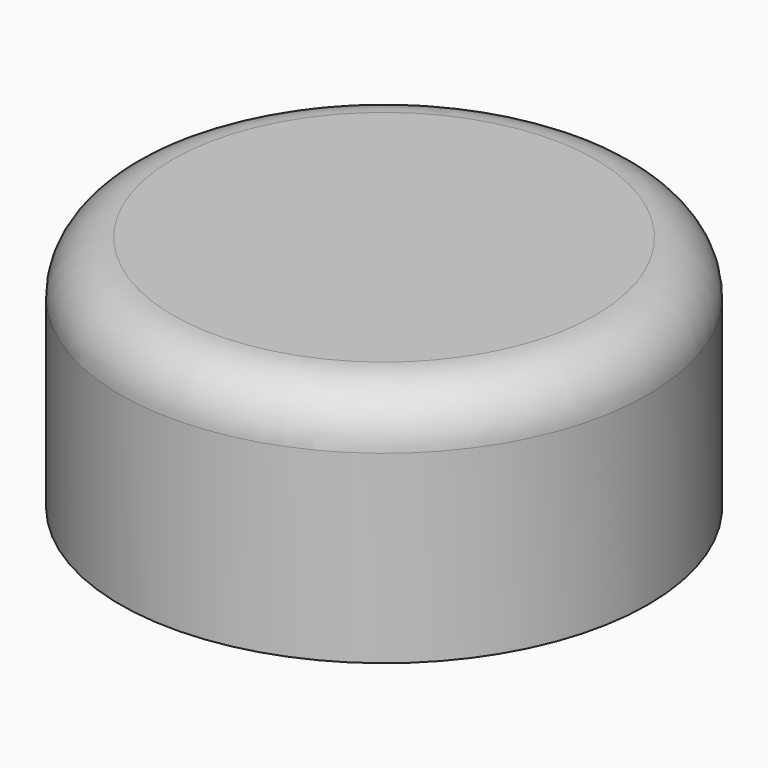
from build123d import *

# Parameters (mm, degrees)
F0_R     = 25.4
F0_R_2   = 8.89
F1_DEPTH = 2.54
F2_R     = 25.4
F2_R_2   = 8.89
F3_DEPTH = 20.32
F4_R     = 5.08


with BuildPart() as f1:
    # F0 (on Top) → F1 (new body)
    with BuildSketch(Plane.XY):
        Circle(F0_R)
        Circle(F0_R_2, mode=Mode.SUBTRACT)
    extrude(amount=F1_DEPTH)

    # F2 (on face) → F3 (join)
    with BuildSketch(Plane.XY.offset(2.54)):
        Circle(F2_R)
        Circle(F2_R_2, mode=Mode.SUBTRACT)
        Circle(F2_R_2)
    extrude(amount=F3_DEPTH)

    # F4
    f4_edges = [f1.edges().sort_by_distance(p)[0] for p in [
        (-25.4, 0, 22.86),
    ]]
    fillet(f4_edges, radius=F4_R)


solid = f1.part
